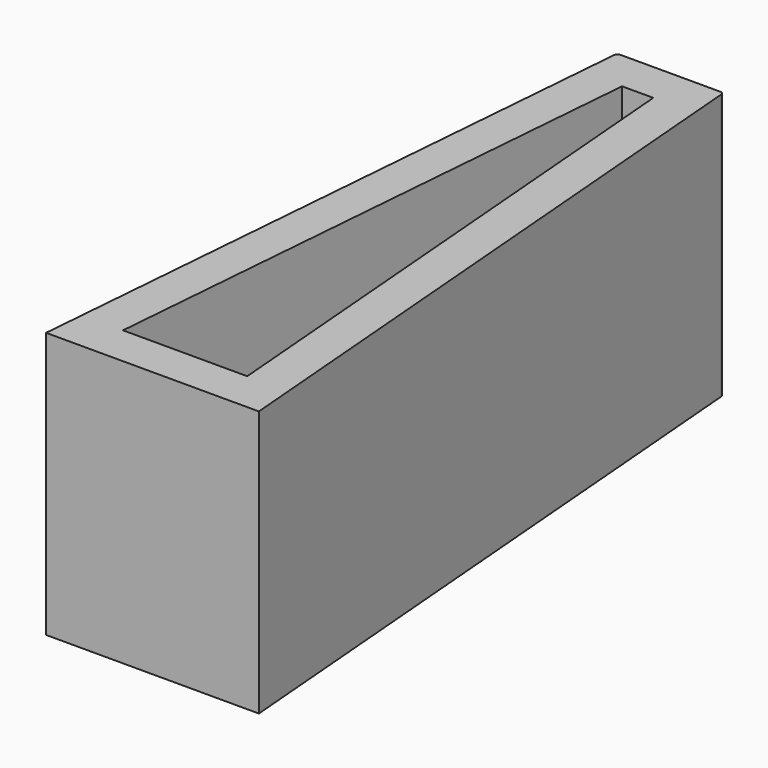
from build123d import *

# Parameters (mm, degrees)
F1_DEPTH = 15
F2_T     = -2.3


with BuildPart() as f1:
    # F0 (on Top) → F1 (new body)
    with BuildSketch(Plane.XY):
        with BuildLine():
            Line((2.815764, 36.5), (0, 36.5))
            Line((0, 36.5), (-2.789257, 36.5))
            ThreePointArc((-2.789257, 36.5), (-2.944258, 36.439489), (-3.017263, 36.289965))
            Line((-3.017263, 36.289965), (-6, 0))
            Line((-6, 0), (0, 0))
            Line((0, 0), (6, 0))
            Line((6, 0), (3.015092, 36.316383))
            ThreePointArc((3.015092, 36.316383), (2.951269, 36.4471), (2.815764, 36.5))
        make_face()
    extrude(amount=F1_DEPTH)

    # F2
    f2_openings = [f1.faces().sort_by_distance(p)[0] for p in [
        (2e-05, 16.221217, 15),
    ]]
    offset(amount=F2_T, openings=f2_openings)


solid = f1.part
